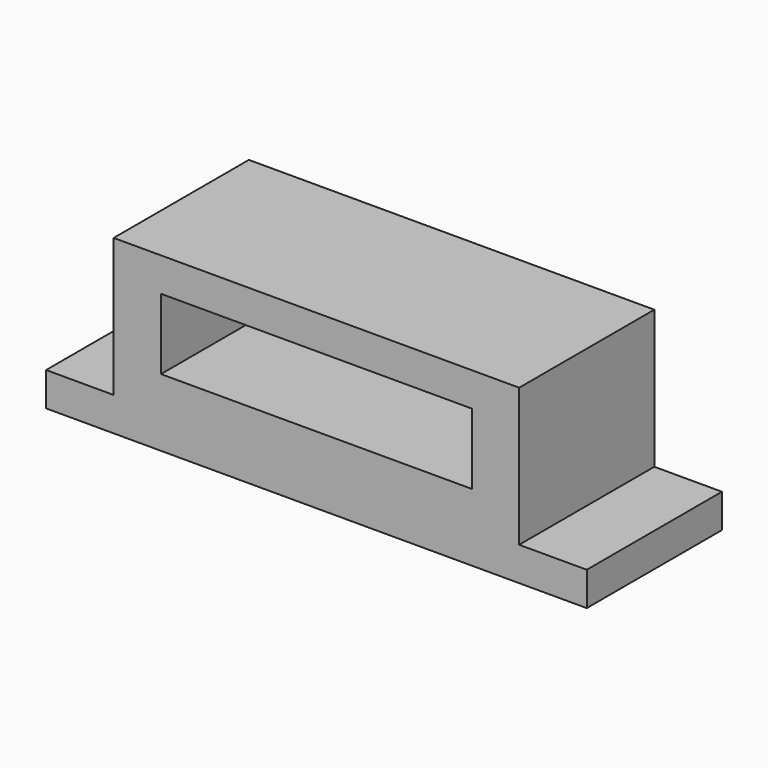
from build123d import *

# Parameters (mm, degrees)
F0_W     = 60
F0_H     = 20.4615421835
F0_W_2   = 46
F0_H_2   = 10.4615421835
F1_DEPTH = 25


with BuildPart() as f1:
    # F0 (on Front) → F1 (new body)
    with BuildSketch(Plane.XZ):
        with Locations((-1.6490174871, 5.8380284264)):
            Rectangle(F0_W, F0_H)
        with Locations((-1.6490174871, 5.8380284264)):
            Rectangle(F0_W_2, F0_H_2, mode=Mode.SUBTRACT)
        Polygon((28.3509825129, -4.3927426653), (-31.6490174871, -4.3927426653), (-41.6490174871, -4.3927426653), (-41.6490174871, -9.3927426653), (38.3509825129, -9.3927426653), (38.3509825129, -4.3927426653), align=None)
    extrude(amount=F1_DEPTH)


solid = f1.part
